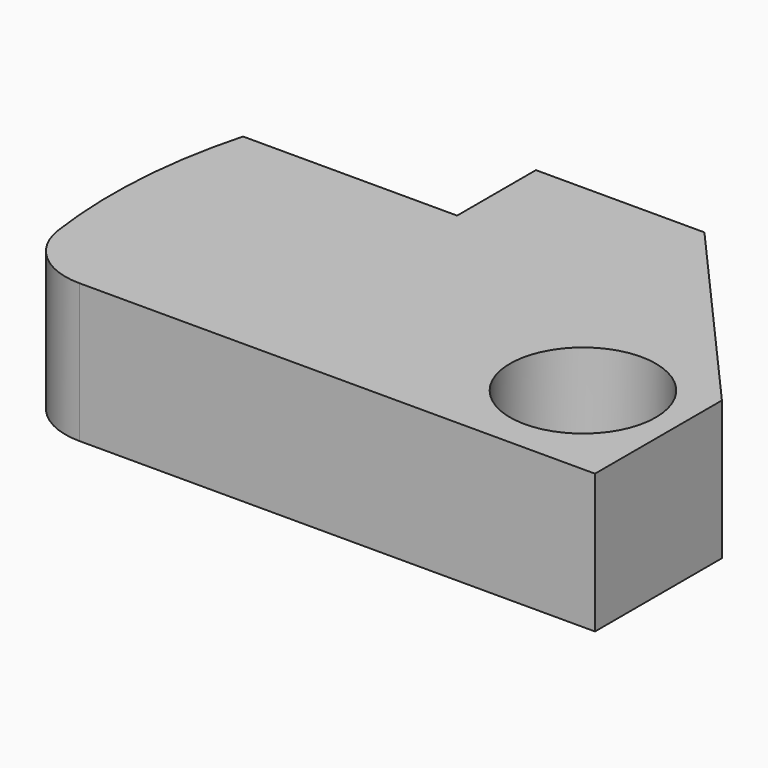
from build123d import *

# Parameters (mm, degrees)
F0_R     = 13.323828
F1_DEPTH = 25.4
F2_R     = 12.7


with BuildPart() as f1:
    # F0 (on Top) → F1 (new body)
    with BuildSketch(Plane.XY):
        with BuildLine():
            Line((-10.201276, 15.701963), (-49.335584, 15.701963))
            ThreePointArc((-49.335584, 15.701963), (-52.774252, -9.280166), (-49.655831, -34.304287))
            Line((-49.655831, -34.304287), (55.006877, -34.304287))
            Line((55.006877, -34.304287), (55.006877, -5.300662))
            Line((55.006877, -5.300662), (20.602578, 33.70421))
            Line((20.602578, 33.70421), (-10.201276, 33.70421))
            Line((-10.201276, 33.70421), (-10.201276, 15.701963))
        make_face()
        with Locations((37.604701, -15.301912)):
            Circle(F0_R, mode=Mode.SUBTRACT)
    extrude(amount=F1_DEPTH)

    # F2
    f2_edges = [f1.edges().sort_by_distance(p)[0] for p in [
        (-49.655831, -34.304287, 12.7),
    ]]
    fillet(f2_edges, radius=F2_R)


solid = f1.part
